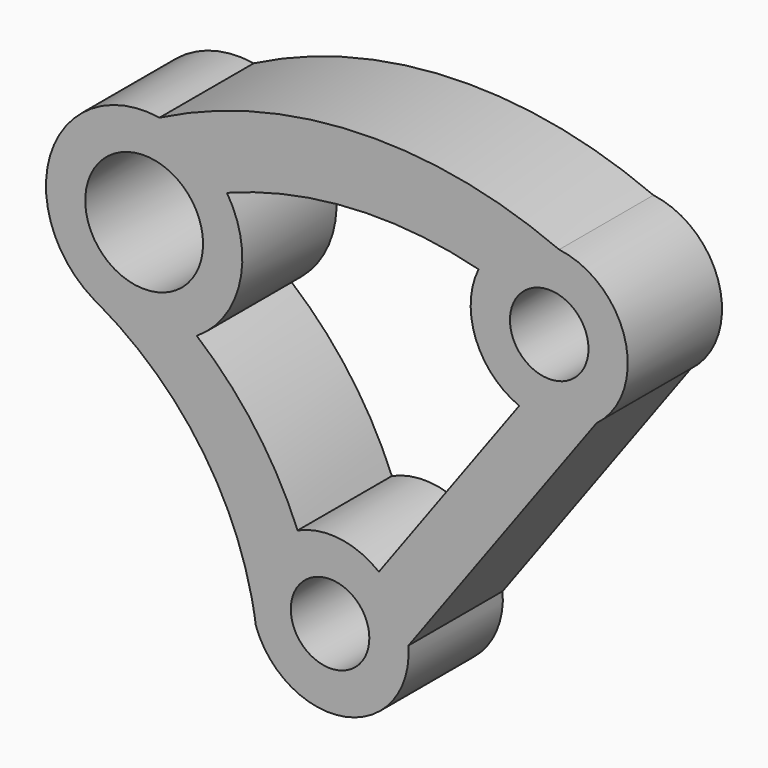
from build123d import *

# Parameters (mm, degrees)
F0_R     = 10
F0_R_2   = 15
F1_DEPTH = 30


with BuildPart() as f1:
    # F0 (on Front) → F1 (new body)
    with BuildSketch(Plane.XZ):
        with BuildLine():
            Line((35.157149, -51.577484), (83.05303, 13.869107))
            ThreePointArc((83.05303, 13.869107), (90.350805, 34.970714), (73.554792, 49.682248))
            ThreePointArc((73.554792, 49.682248), (22.273236, 59.247727), (-28.221613, 46.149386))
            ThreePointArc((-28.221613, 46.149386), (-55.620196, 29.974368), (-44.950105, 0))
            ThreePointArc((-44.950105, 0), (-44.331533, -0.343094), (-43.715976, -0.691571))
            ThreePointArc((-43.715976, -0.691571), (-18.639804, -23.048068), (-4.775256, -53.648749))
            ThreePointArc((-4.775256, -53.648749), (-4.17351, -56.649417), (-3.685405, -59.670653))
            ThreePointArc((-3.685405, -59.670653), (19.297822, -72.719379), (35.157149, -51.577484))
        make_face()
        with Locations((15.218269, -53.139868)):
            Circle(F0_R, mode=Mode.SUBTRACT)
        with Locations((-32.116687, 21.454682)):
            Circle(F0_R_2, mode=Mode.SUBTRACT)
        with BuildLine():
            ThreePointArc((6.954943, -34.926756), (-3.713746, -15.710959), (-18.721861, 0.345948))
            ThreePointArc((-18.721861, 0.345948), (-7.712969, 16.02711), (-11.037631, 34.896163))
            ThreePointArc((-11.037631, 34.896163), (20.707963, 41.755983), (53.031224, 38.586331))
            ThreePointArc((53.031224, 38.586331), (52.324375, 22.73691), (63.381386, 11.359465))
            Line((63.381386, 11.359465), (27.646379, -37.470087))
            ThreePointArc((27.646379, -37.470087), (17.658247, -33.289264), (6.954943, -34.926756))
        make_face(mode=Mode.SUBTRACT)
        with Locations((71.019145, 29.843637)):
            Circle(F0_R, mode=Mode.SUBTRACT)
    extrude(amount=F1_DEPTH)


solid = f1.part
